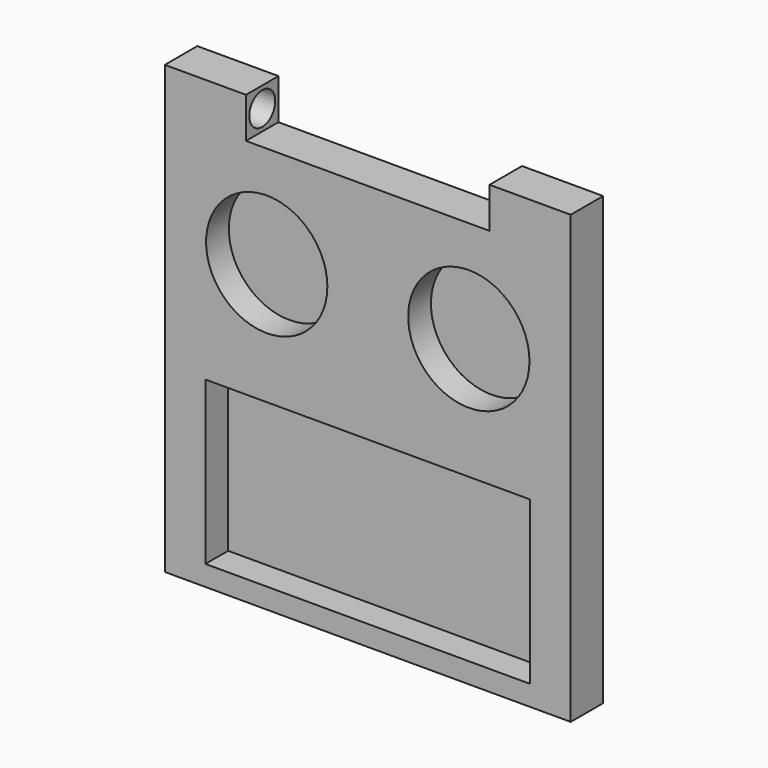
from build123d import *

# Parameters (mm, degrees)
F0_W      = 127
F0_H      = 127
F1_DEPTH  = 12.7
F2_R      = 18.973851
F2_W      = 101.6
F2_H      = 50.8
F3_DEPTH  = 8.89
F4_W      = 25.4
F4_H      = 12.7
F5_DEPTH  = 12.7
F7_W      = 25.4
F7_H      = 12.7
F8_DEPTH  = 12.7
F9_R      = 5.08
F10_DEPTH = 12.7
F6_R      = 5.08
F11_DEPTH = 12.7


with BuildPart() as f1:
    # F0 (on Front) → F1 (new body)
    with BuildSketch(Plane.XZ):
        with Locations((63.5, 63.5)):
            Rectangle(F0_W, F0_H)
    extrude(amount=F1_DEPTH)

    # F2 (on face) → F3 (cut)
    with BuildSketch(Plane.XZ.offset(12.7)):
        with Locations((95.128258, 95.123877)):
            Circle(F2_R)
        with Locations((31.882087, 95.123877)):
            Circle(F2_R)
        with Locations((63.5, 31.75)):
            Rectangle(F2_W, F2_H)
    extrude(amount=-F3_DEPTH, mode=Mode.SUBTRACT)

    # F4 (on face) → F5 (join)
    with BuildSketch(Plane.XY.offset(127)):
        with Locations((12.7, -6.35)):
            Rectangle(F4_W, F4_H)
    extrude(amount=F5_DEPTH)

    # F7 (on face) → F8 (join)
    with BuildSketch(Plane.XY.offset(127)):
        with Locations((114.3, -6.35)):
            Rectangle(F7_W, F7_H)
    extrude(amount=F8_DEPTH)

    # F9 (on face) → F10 (cut)
    with BuildSketch(Plane(origin=(101.6, 0, 0), x_dir=(0, -1, 0), z_dir=(-1, 0, 0))):
        with Locations((6.35, 133.35)):
            Circle(F9_R)
    extrude(amount=-F10_DEPTH, mode=Mode.SUBTRACT)

    # F6 (on face) → F11 (cut)
    with BuildSketch(Plane.YZ.offset(25.4)):
        with Locations((-6.35, 133.35)):
            Circle(F6_R)
    extrude(amount=-F11_DEPTH, mode=Mode.SUBTRACT)


solid = f1.part
